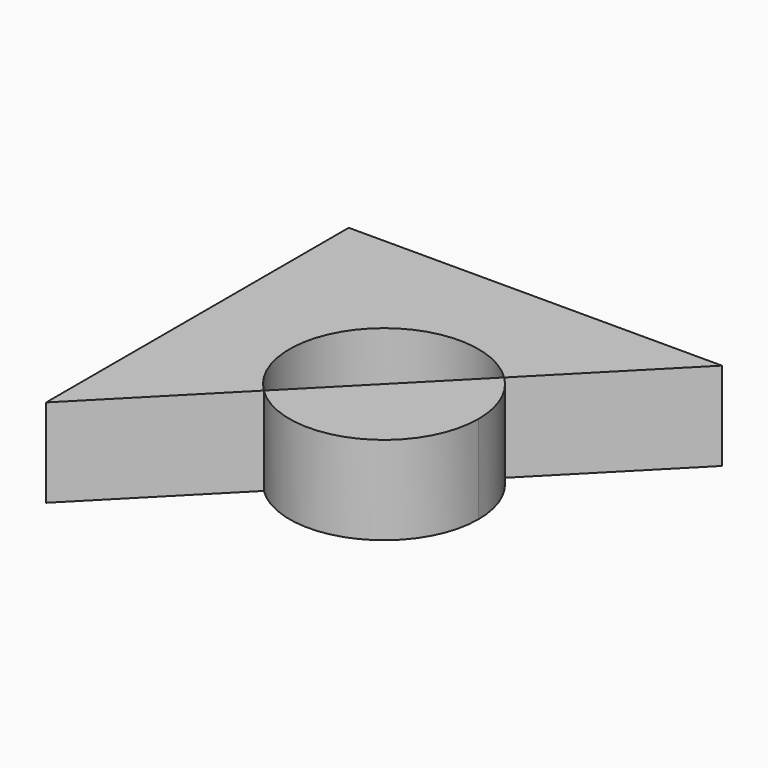
from build123d import *

# Parameters (mm, degrees)
F1_DEPTH = 25.4


with BuildPart() as f1:
    # F0 (on Top) → F1 (new body)
    with BuildSketch(Plane.XY):
        with BuildLine():
            Line((107.2898805141, 0), (0, 0))
            Line((0, 0), (0, -108.7636202574))
            Line((0, -108.7636202574), (34.5607594065, -73.7281323448))
            ThreePointArc((34.5607594065, -73.7281323448), (34.298618041, -35.2976292781), (72.7291211076, -35.0354879126))
            Line((72.7291211076, -35.0354879126), (107.2898805141, 0))
        make_face()
    extrude(amount=F1_DEPTH)


with BuildPart() as f1b:
    # F0 (on Top) → F1, piece 2 (new body)
    with BuildSketch(Plane.XY):
        with BuildLine():
            ThreePointArc((80.8200417661, -54.3818101287), (78.7158466413, -43.8967829424), (72.7291211076, -35.0354879126))
            Line((72.7291211076, -35.0354879126), (34.5607594065, -73.7281323448))
            ThreePointArc((34.5607594065, -73.7281323448), (64.1299674434, -79.4527165129), (80.8200417661, -54.3818101287))
        make_face()
    extrude(amount=F1_DEPTH)


solid = Compound([f1.part, f1b.part])
